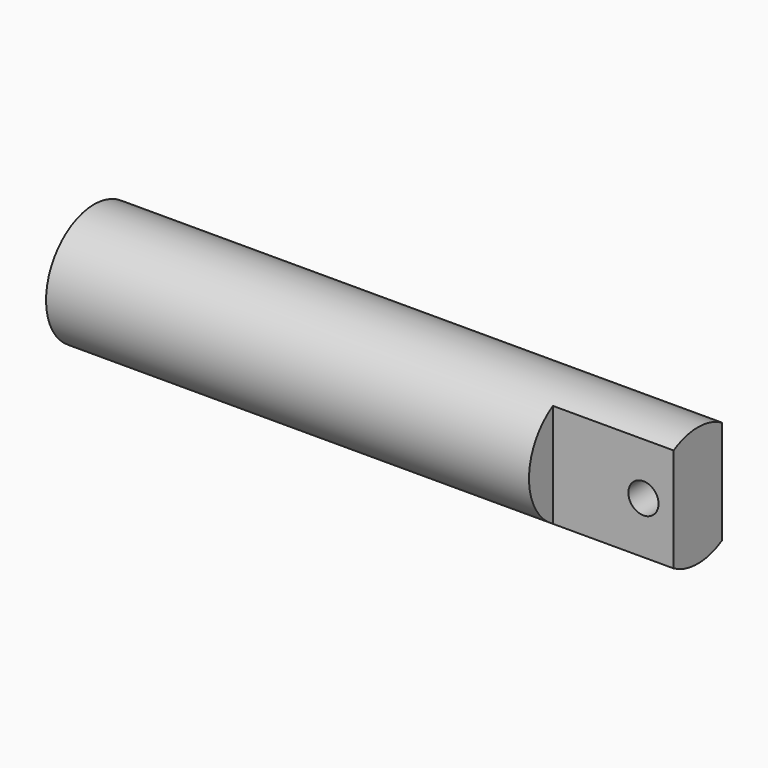
from build123d import *

# Parameters (mm, degrees)
F0_W     = 127
F0_H     = 12.6365
F4_W     = 11.585965
F4_H     = 46.12105
F4_W_2   = 13.368421
F4_H_2   = 40.105261
F5_DEPTH = 25.4
F6_R     = 3.175
F7_DEPTH = 25.4


with BuildPart() as f1:
    # F0 (on Front) → F1 (revolve)
    with BuildSketch(Plane.XZ):
        with Locations((69.85, 6.31825)):
            Rectangle(F0_W, F0_H)
    revolve(axis=Axis((69.85, 0, 0), (1, 0, 0)))

    # F2 (on Front) → F3 (revolve, cut)
    with BuildSketch(Plane.XZ):
        with BuildLine():
            Line((-12.7, 0), (12.7, 0))
            ThreePointArc((12.7, 0), (0, 12.7), (-12.7, 0))
        make_face()
    revolve(axis=Axis((0, 0, 0), (1, 0, 0)), mode=Mode.SUBTRACT)

    # F4 (on face) → F5 (cut)
    with BuildSketch(Plane.YZ.offset(133.35)):
        with Locations((-12.142982, 0.507677)):
            Rectangle(F4_W, F4_H)
        with Locations((13.034211, 3.515572)):
            Rectangle(F4_W_2, F4_H_2)
    extrude(amount=-F5_DEPTH, mode=Mode.SUBTRACT)

    # F6 (on face) → F7 (cut)
    with BuildSketch(Plane.XZ.offset(6.35)):
        with Locations((127, 0)):
            Circle(F6_R)
    extrude(amount=-F7_DEPTH, mode=Mode.SUBTRACT)


solid = f1.part
